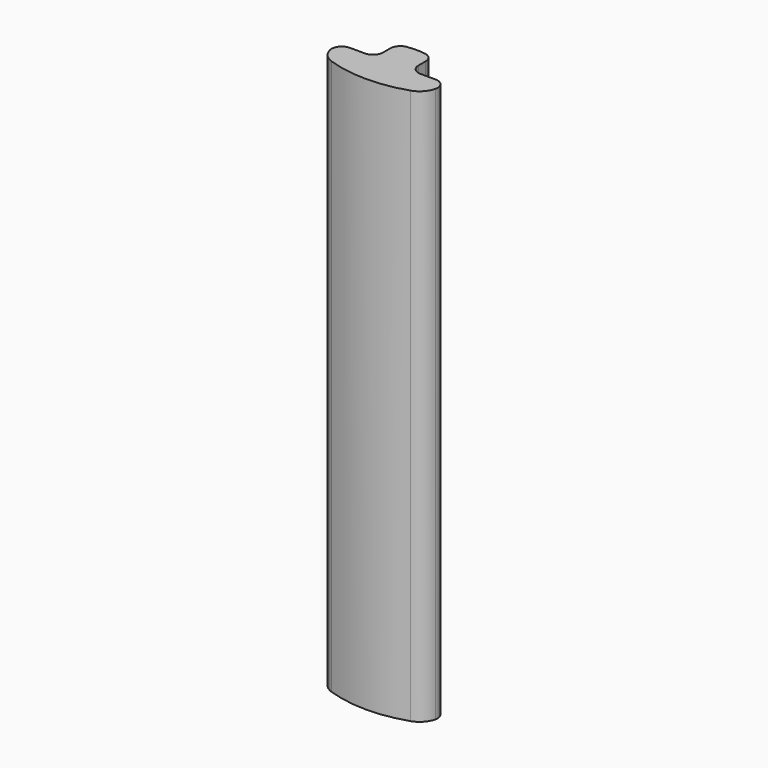
from build123d import *

# Parameters (mm, degrees)
BOX004_W                   = 3.5
BOX004_H                   = 3
BOX004_DEPTH               = 60
BOX003_W                   = 3.5
BOX003_H                   = 3
BOX003_DEPTH               = 60
EXTRUDE009_DEPTH           = 55
EXTRUDE009_PLACEMENT_ANGLE = 180
FILLET004_R                = 2
FILLET005_R                = 1


with BuildPart() as obj1:
    # Box004 → Box004 (new body)
    with BuildSketch(Plane(origin=(1.75, -9, 0), x_dir=(1, 0, 0), z_dir=(0, 0, 1))):
        with Locations((1.75, 1.5)):
            Rectangle(BOX004_W, BOX004_H)
    extrude(amount=BOX004_DEPTH)


with BuildPart() as obj2:
    # Box003 → Box003 (new body)
    with BuildSketch(Plane(origin=(-5.25, -9, 0), x_dir=(1, 0, 0), z_dir=(0, 0, 1))):
        with Locations((1.75, 1.5)):
            Rectangle(BOX003_W, BOX003_H)
    extrude(amount=BOX003_DEPTH)


with BuildPart() as obj3:
    # Sketch007 → Extrude009 (new body)
    with BuildSketch(Plane.XY):
        with BuildLine():
            ThreePointArc((-5.868808, 10.809583), (0, 6.057418), (5.868808, 10.809583))
            ThreePointArc((5.868808, 10.809583), (0, 12.3), (-5.868808, 10.809583))
        make_face()
    extrude(amount=EXTRUDE009_DEPTH)


with BuildPart() as obj3_1:
    # Extrude009 placement: moved
    add(obj3.part.moved(Location((0, 0, 1.8))).rotate(Axis((0, 0, 1.8), (0, 0, 1)), EXTRUDE009_PLACEMENT_ANGLE))

    # Fillet004
    fillet004_edges = [obj3_1.edges().sort_by_distance(p)[0] for p in [
        (5.868808, -10.809583, 29.3),
        (-5.868808, -10.809583, 29.3),
    ]]
    fillet(fillet004_edges, radius=FILLET004_R)

    # Cut002: cut obj2
    add(obj2.part, mode=Mode.SUBTRACT)

    # Cut003: cut obj1
    add(obj1.part, mode=Mode.SUBTRACT)

    # Fillet005
    fillet005_edges = [obj3_1.edges().sort_by_distance(p)[0] for p in [
        (-1.75, -6.318298, 29.3),
        (1.75, -6.318298, 29.3),
        (-1.75, -9, 29.3),
        (1.75, -9, 29.3),
        (5.125721, -9, 29.3),
        (-5.125721, -9, 29.3),
    ]]
    fillet(fillet005_edges, radius=FILLET005_R)


solid = obj3_1.part
